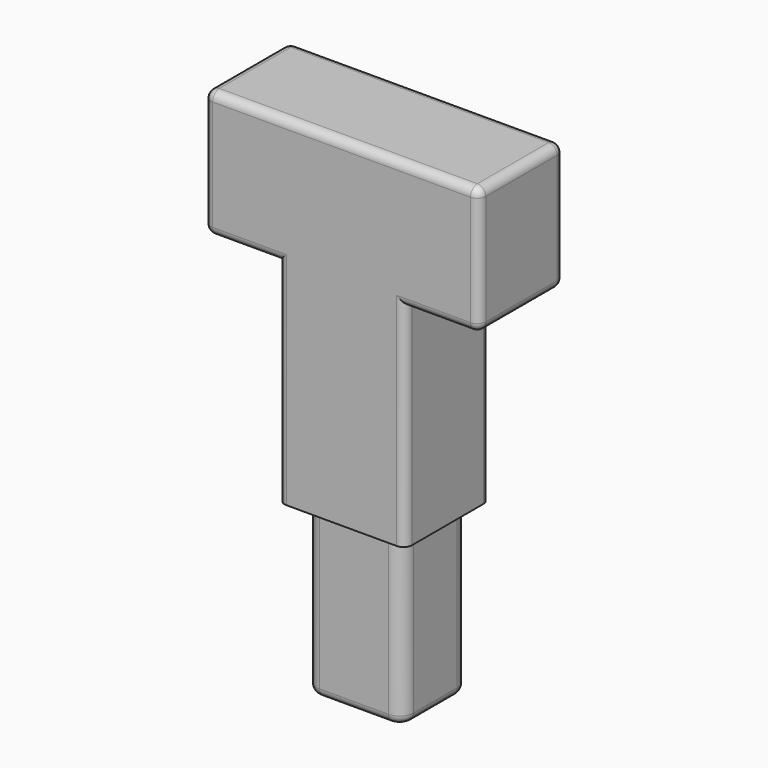
from build123d import *

# Parameters (mm, degrees)
F0_W     = 76.2
F0_H     = 203.2
F1_DEPTH = 63.5
F2_W     = 57.8507818282
F2_H     = 49.3930634111
F3_DEPTH = 101.6
F4_R     = 8.255
F5_R     = 8.3312
F6_R     = 5.08
F7_W     = 164.5440448
F7_H     = 76.2
F8_DEPTH = 63.5
F9_R     = 5.08


with BuildPart() as f1:
    # F0 (on Front) → F1 (new body)
    with BuildSketch(Plane.XZ):
        Rectangle(F0_W, F0_H)
    extrude(amount=F1_DEPTH)

    # F2 (on face) → F3 (join)
    with BuildSketch(Plane(origin=(0, 0, -101.6), x_dir=(1, 0, 0), z_dir=(0, 0, -1))):
        with Locations((0, 29.4664166868)):
            Rectangle(F2_W, F2_H)
    extrude(amount=F3_DEPTH)

    # F4
    f4_edges = [f1.edges().sort_by_distance(p)[0] for p in [
        (-28.925391, -54.162948, -152.4),
    ]]
    fillet(f4_edges, radius=F4_R)

    # F5
    f5_edges = [f1.edges().sort_by_distance(p)[0] for p in [
        (28.925391, -54.162948, -152.4),
        (28.925391, -4.769885, -152.4),
        (-28.925391, -4.769885, -152.4),
    ]]
    fillet(f5_edges, radius=F5_R)

    # F6
    f6_edges = [f1.edges().sort_by_distance(p)[0] for p in [
        (28.925391, -29.466417, -203.2),
        (26.485239, -51.722796, -203.2),
        (26.485239, -7.210037, -203.2),
        (0, -4.769885, -203.2),
        (-0.0381, -54.162948, -203.2),
        (-26.507557, -51.745115, -203.2),
        (-28.925391, -29.504517, -203.2),
        (-26.485239, -7.210037, -203.2),
    ]]
    fillet(f6_edges, radius=F6_R)

    # F7 (on face) → F8 (join)
    with BuildSketch(Plane.XZ.offset(63.5)):
        with Locations((0, 63.5)):
            Rectangle(F7_W, F7_H)
    extrude(amount=-F8_DEPTH)

    # F9
    f9_edges = [f1.edges().sort_by_distance(p)[0] for p in [
        (0, -63.5, 101.6),
        (0, 0, 101.6),
        (-60.186011, 0, 25.4),
        (60.186011, 0, 25.4),
        (-60.186011, -63.5, 25.4),
        (60.186011, -63.5, 25.4),
        (82.272022, -31.75, 25.4),
        (82.272022, -31.75, 101.6),
        (82.272022, -63.5, 63.5),
        (82.272022, 0, 63.5),
        (-82.272022, -31.75, 101.6),
        (-82.272022, -31.75, 25.4),
        (-82.272022, -63.5, 63.5),
        (-82.272022, 0, 63.5),
        (-38.1, -63.5, -38.1),
        (38.1, -63.5, -38.1),
        (-38.1, 0, -38.1),
        (38.1, 0, -38.1),
    ]]
    fillet(f9_edges, radius=F9_R)


solid = f1.part
